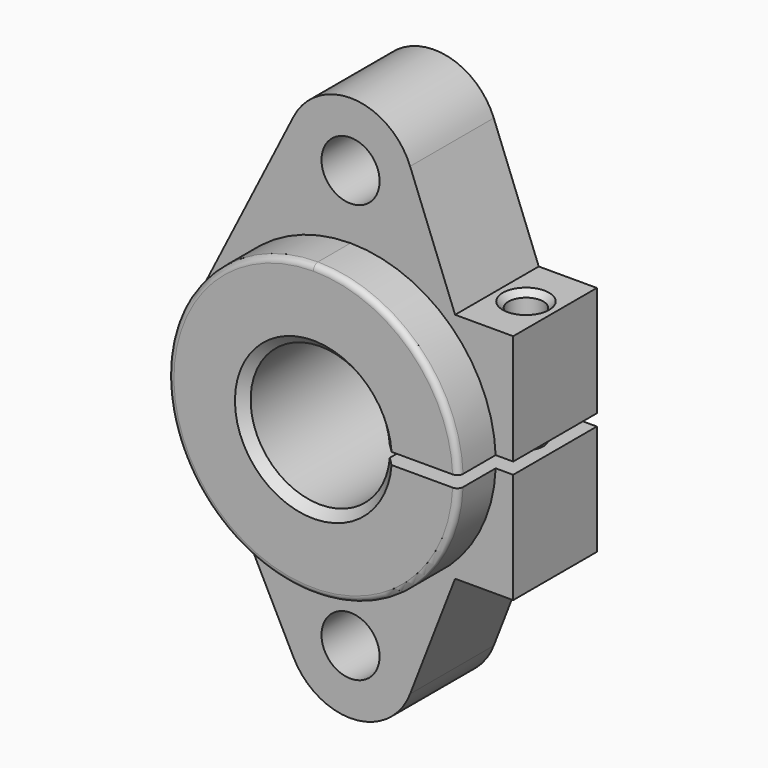
from build123d import *

# Parameters (mm, degrees)
SKETCH001_W     = 13
SKETCH001_H     = 6.5
SKETCH_R        = 2.5
SKETCH_R_2      = 10
PAD_DEPTH       = 9
SKETCH002_R     = 1.5
POCKET_DEPTH    = 33.501
CHAMFER_SIZE    = 0.75
CHAMFER001_SIZE = 0.5
FILLET_R        = 0.5
SKETCH003_W     = 16
SKETCH003_H     = 1
POCKET001_DEPTH = 13.001


with BuildPart() as shaft_support:
    # Sketch001 → Revolution (revolve)
    with BuildSketch(Plane.YZ):
        with Locations((-6.5, 9.25)):
            Rectangle(SKETCH001_W, SKETCH001_H)
    revolve(axis=Axis((0, 0, 0), (0, 1, 0)))


with BuildPart() as obj1:
    # Sketch → Pad (new body)
    with BuildSketch(Plane.XZ):
        with BuildLine():
            Line((-14, -2.5), (-14, 2.5))
            Line((-14, 2.5), (-4.908286, 20.481678))
            ThreePointArc((5.128166, 19.987941), (0.270242, 23.493357), (-4.908286, 20.481678))
            Line((5.128166, 19.987941), (9, 10))
            Line((9, 10), (14, 10))
            Line((14, 10), (14, -10))
            Line((14, -10), (9, -10))
            Line((9, -10), (5.128167, -19.987938))
            ThreePointArc((-4.908296, -20.481659), (0.270233, -23.493357), (5.128167, -19.987938))
            Line((-4.908296, -20.481659), (-14, -2.5))
        make_face()
        with Locations((0, 18)):
            Circle(SKETCH_R, mode=Mode.SUBTRACT)
        with Locations((0, -18)):
            Circle(SKETCH_R, mode=Mode.SUBTRACT)
        Circle(SKETCH_R_2, mode=Mode.SUBTRACT)
    extrude(amount=PAD_DEPTH)

    # Fusion: union shaft-support
    add(shaft_support.part)

    # Sketch002 → Pocket (cut, through all)
    with BuildSketch(Plane.XY.offset(10)):
        with Locations((11.5, -4.5)):
            Circle(SKETCH002_R)
    extrude(amount=-POCKET_DEPTH, mode=Mode.SUBTRACT)

    # Chamfer
    chamfer_edges = [obj1.edges().sort_by_distance(p)[0] for p in [
        (0, -13, -6),
    ]]
    chamfer(chamfer_edges, length=CHAMFER_SIZE)

    # Chamfer001
    chamfer001_edges = [obj1.edges().sort_by_distance(p)[0] for p in [
        (10, -4.5, 10),
        (10, -4.5, -10),
    ]]
    chamfer(chamfer001_edges, length=CHAMFER001_SIZE)

    # Fillet
    fillet_edges = [obj1.edges().sort_by_distance(p)[0] for p in [
        (0, -13, -12.5),
    ]]
    fillet(fillet_edges, radius=FILLET_R)

    # Sketch003 → Pocket001 (cut, through all)
    with BuildSketch(Plane(origin=(0, 0, 0), x_dir=(-1, 0, 0), z_dir=(0, 1, 0))):
        with Locations((-8, 0)):
            Rectangle(SKETCH003_W, SKETCH003_H)
    extrude(amount=-POCKET001_DEPTH, mode=Mode.SUBTRACT)


solid = obj1.part
